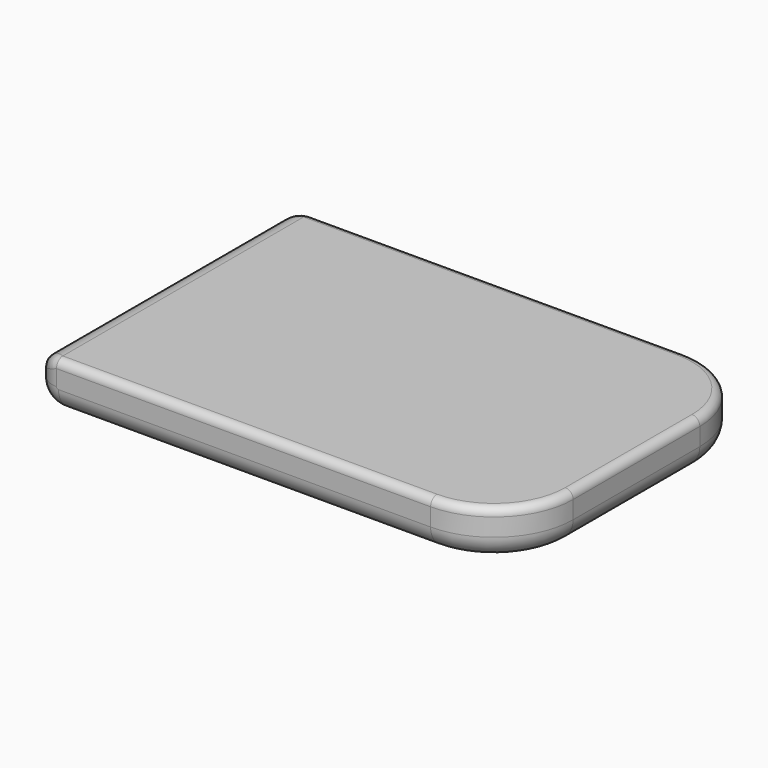
from build123d import *

# Parameters (mm, degrees)
BOX001001011_W     = 120
BOX001001011_H     = 80
BOX001001011_DEPTH = 12
FILLET003002007_R  = 20
FILLET003002008_R  = 20
FILLET003002009_R  = 6
FILLET003002010_R  = 2
FILLET003002011_R  = 5.5


with BuildPart() as part:
    # Box001001011 → Box001001011 (new body)
    with BuildSketch(Plane(origin=(39, -40, 73), x_dir=(1, 0, 0), z_dir=(0, 0, 1))):
        with Locations((60, 40)):
            Rectangle(BOX001001011_W, BOX001001011_H)
    extrude(amount=BOX001001011_DEPTH)

    # Fillet003002007
    fillet003002007_edges = [part.edges().sort_by_distance(p)[0] for p in [
        (159, -40, 79),
    ]]
    fillet(fillet003002007_edges, radius=FILLET003002007_R)

    # Fillet003002008
    fillet003002008_edges = [part.edges().sort_by_distance(p)[0] for p in [
        (159, 40, 79),
    ]]
    fillet(fillet003002008_edges, radius=FILLET003002008_R)

    # Fillet003002009
    fillet003002009_edges = [part.edges().sort_by_distance(p)[0] for p in [
        (39, 0, 73),
    ]]
    fillet(fillet003002009_edges, radius=FILLET003002009_R)

    # Fillet003002010
    fillet003002010_edges = [part.edges().sort_by_distance(p)[0] for p in [
        (89, 40, 85),
    ]]
    fillet(fillet003002010_edges, radius=FILLET003002010_R)

    # Fillet003002011
    fillet003002011_edges = [part.edges().sort_by_distance(p)[0] for p in [
        (39, 0, 85),
    ]]
    fillet(fillet003002011_edges, radius=FILLET003002011_R)


solid = part.part
